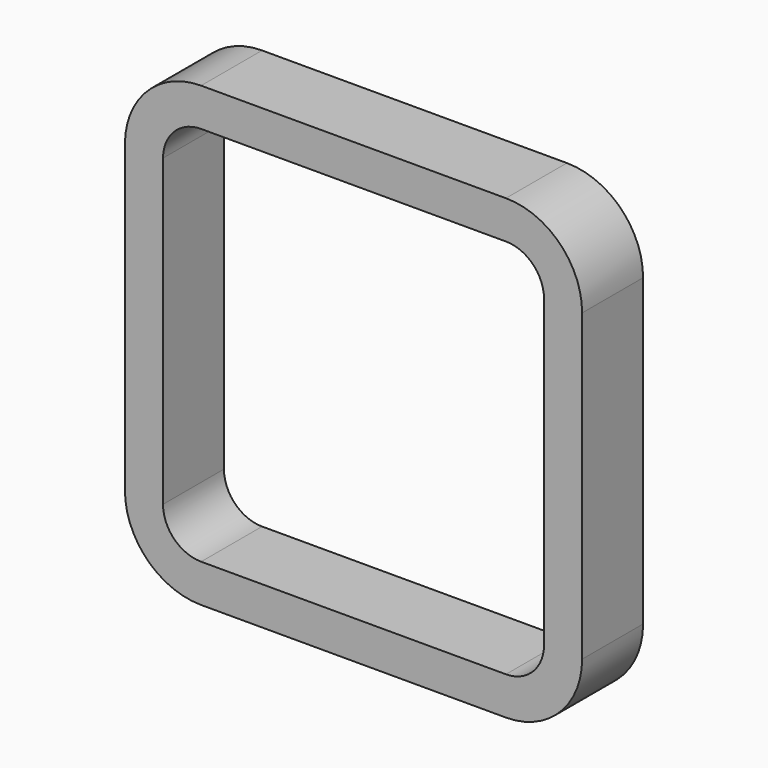
from build123d import *

# Parameters (mm, degrees)
F1_DEPTH = 25.4


with BuildPart() as f1:
    # F0 (on Front) → F1 (new body)
    with BuildSketch(Plane.XZ):
        with BuildLine():
            ThreePointArc((76.2, 50.8), (68.760512, 68.760512), (50.8, 76.2))
            Line((50.8, 76.2), (-50.8, 76.2))
            ThreePointArc((-50.8, 76.2), (-68.760512, 68.760512), (-76.2, 50.8))
            Line((-76.2, 50.8), (-76.2, -50.8))
            ThreePointArc((-76.2, -50.8), (-68.760512, -68.760512), (-50.8, -76.2))
            Line((-50.8, -76.2), (50.8, -76.2))
            ThreePointArc((50.8, -76.2), (68.760512, -68.760512), (76.2, -50.8))
            Line((76.2, -50.8), (76.2, 50.8))
        make_face()
        with BuildLine():
            Line((-50.8, 63.5), (50.8, 63.5))
            ThreePointArc((50.8, 63.5), (59.780256, 59.780256), (63.5, 50.8))
            Line((63.5, 50.8), (63.5, -50.8))
            ThreePointArc((63.5, -50.8), (59.780256, -59.780256), (50.8, -63.5))
            Line((50.8, -63.5), (-50.8, -63.5))
            ThreePointArc((-50.8, -63.5), (-59.780256, -59.780256), (-63.5, -50.8))
            Line((-63.5, -50.8), (-63.5, 50.8))
            ThreePointArc((-63.5, 50.8), (-59.780256, 59.780256), (-50.8, 63.5))
        make_face(mode=Mode.SUBTRACT)
    extrude(amount=F1_DEPTH)


solid = f1.part
